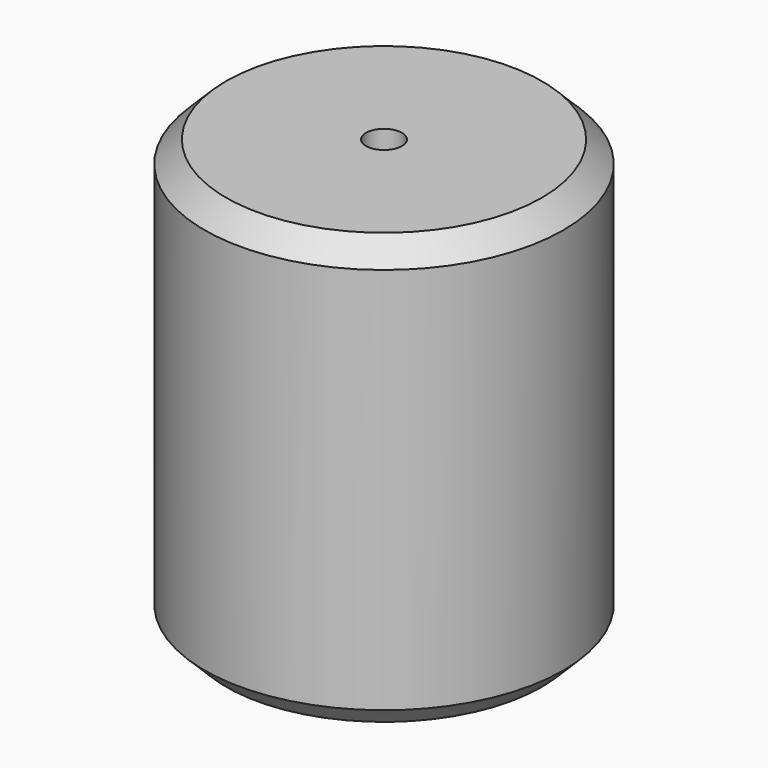
from build123d import *

# Parameters (mm, degrees)
F0_R     = 25
F0_R_2   = 2.5
F1_DEPTH = 60
F2_DEPTH = 60
F3_SIZE  = 3


with BuildPart() as f1:
    # F0 (on Top) → F1 (new body)
    with BuildSketch(Plane.XY):
        Circle(F0_R)
        Circle(F0_R_2, mode=Mode.SUBTRACT)
        Circle(F0_R_2)
    extrude(amount=F1_DEPTH)

    # F0 (on Top) → F2 (cut)
    with BuildSketch(Plane.XY):
        Circle(F0_R_2)
    extrude(amount=F2_DEPTH, mode=Mode.SUBTRACT)

    # F3
    f3_edges = [f1.edges().sort_by_distance(p)[0] for p in [
        (-25, 0, 60),
        (-25, 0, 0),
    ]]
    chamfer(f3_edges, length=F3_SIZE)


solid = f1.part
